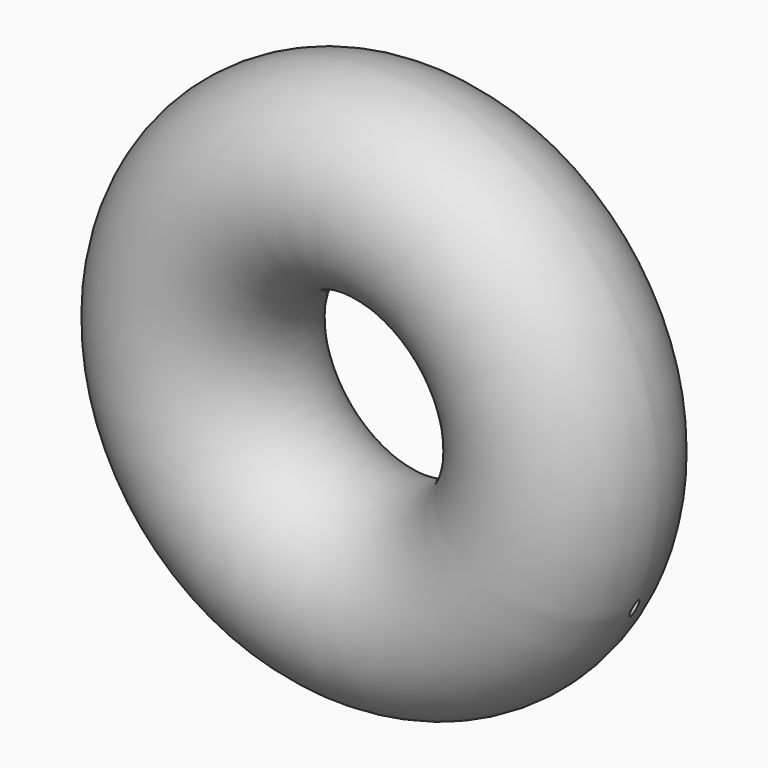
from build123d import *

# Parameters (mm, degrees)
F0_R     = 76.2
F3_D     = 6.35
F3_DEPTH = 221.3523172196


with BuildPart() as f1:
    # F0 (on Top) → F1 (revolve)
    with BuildSketch(Plane.XY):
        Circle(F0_R)
    revolve(axis=Axis((-145.1513171196, 25.4, 0), (0, 1, 0)))

    # F3 (through all, one way)
    with BuildSketch(Plane.XY):
        with Locations((55.6098595262, 0)):
            Circle(F3_D / 2)
    extrude(amount=-F3_DEPTH, mode=Mode.SUBTRACT)


solid = f1.part
